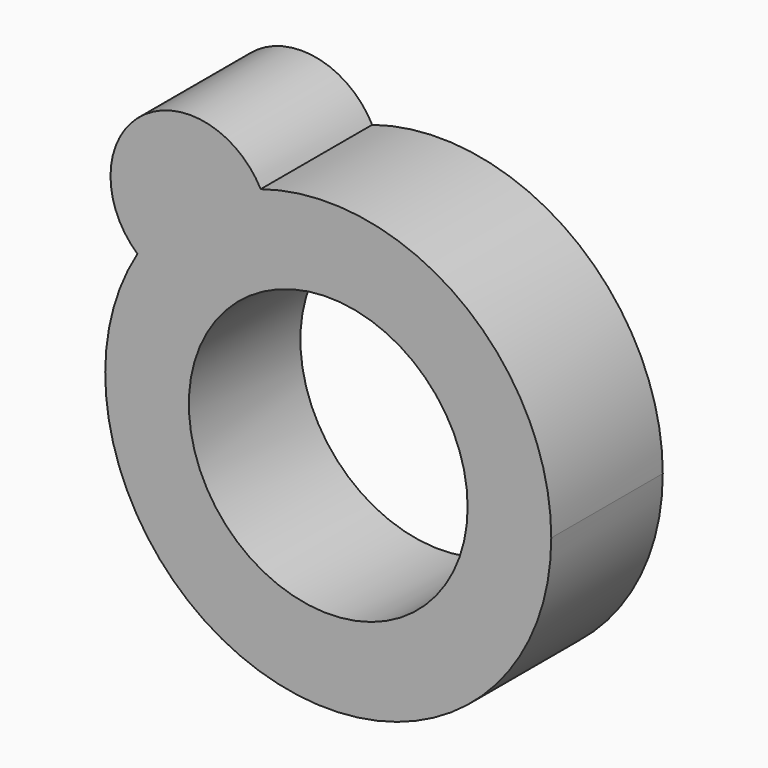
from build123d import *

# Parameters (mm, degrees)
F0_R     = 25
F1_DEPTH = 25


with BuildPart() as f1:
    # F0 (on Front) → F1 (new body)
    with BuildSketch(Plane.XZ):
        with BuildLine():
            ThreePointArc((-34.2216760569, 20.7093430087), (-10.7501850617, -38.5283469817), (40, 0))
            ThreePointArc((40, 0), (23.6135416515, 32.2862300474), (-12.1200325336, 38.1196118997))
            ThreePointArc((-12.1200325336, 38.1196118997), (-10.8769270551, 34.872748618), (-10.4542275067, 31.4218418543))
            ThreePointArc((-10.4542275067, 31.4218418543), (-18.876955429, 18.3868002154), (-34.2216760569, 20.7093430087))
        make_face()
        Circle(F0_R, mode=Mode.SUBTRACT)
        with BuildLine():
            ThreePointArc((-10.4542275067, 31.4218418543), (-10.8769270551, 34.872748618), (-12.1200325336, 38.1196118997))
            ThreePointArc((-12.1200325336, 38.1196118997), (-24.752128282, 31.4218418543), (-34.2216760569, 20.7093430087))
            ThreePointArc((-34.2216760569, 20.7093430087), (-18.876955429, 18.3868002154), (-10.4542275067, 31.4218418543))
        make_face()
        with BuildLine():
            ThreePointArc((-34.2216760569, 20.7093430087), (-24.752128282, 31.4218418543), (-12.1200325336, 38.1196118997))
            ThreePointArc((-12.1200325336, 38.1196118997), (-33.5997151357, 42.6535012794), (-34.2216760569, 20.7093430087))
        make_face()
    extrude(amount=F1_DEPTH)


solid = f1.part
